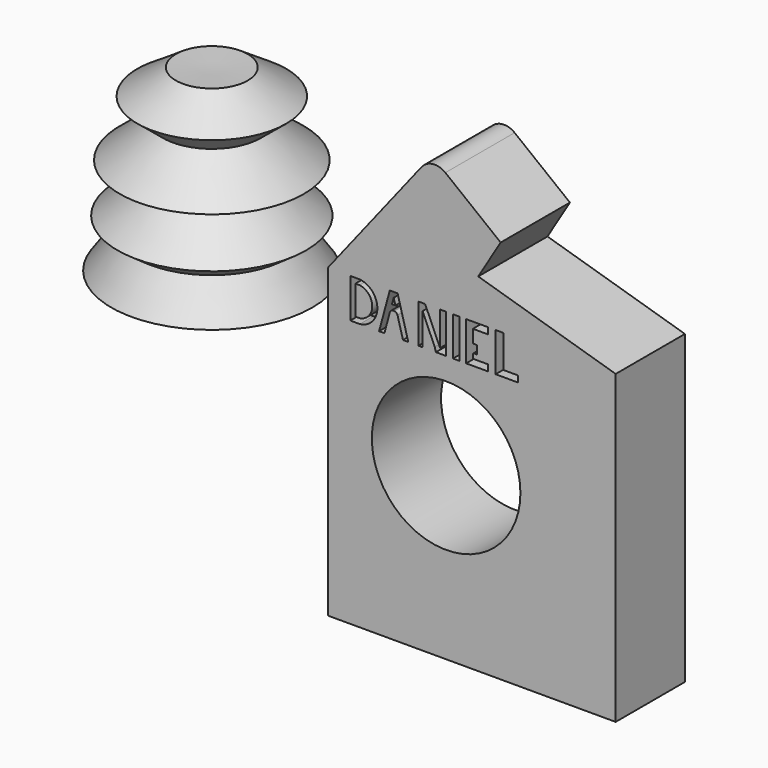
from build123d import *

# Parameters (mm, degrees)
F0_R     = 21.802932
F1_DEPTH = 25.4
F4_W     = 1.879983
F4_H     = 11.429243
F5_DEPTH = 5


with BuildPart() as f1:
    # F0 (on Front) → F1 (new body)
    with BuildSketch(Plane.XZ):
        with BuildLine():
            Line((-34.680426, 39.863642), (-34.680426, -50.04159))
            Line((-34.680426, -50.04159), (49.758866, -50.04159))
            Line((49.758866, -50.04159), (49.758866, 39.863642))
            Line((49.758866, 39.863642), (9.42403, 51.926393))
            Line((9.42403, 51.926393), (16.007511, 62.841313))
            Line((16.007511, 62.841313), (-0.216304, 75.599848))
            ThreePointArc((-0.216304, 75.599848), (-3.900695, 76.63422), (-7.237364, 74.760373))
            Line((-7.237364, 74.760373), (-34.680426, 39.863642))
        make_face()
        Circle(F0_R, mode=Mode.SUBTRACT)
    extrude(amount=F1_DEPTH)

    # F4 (on face) → F5 (cut)
    with BuildSketch(Plane.XZ.offset(25.4)):
        with BuildLine():
            Line((-25.312183, 39.863642), (-28.125796, 39.863642))
            Line((-28.125796, 39.863642), (-28.125796, 28.321173))
            Line((-28.125796, 28.321173), (-25.312183, 28.321173))
            ThreePointArc((-25.312183, 28.321173), (-20.172784, 34.092408), (-25.312183, 39.863642))
        make_face()
        with BuildLine():
            ThreePointArc((-25.405546, 38.363642), (-21.672784, 34.092408), (-25.405546, 29.821173))
            Line((-25.405546, 29.821173), (-26.625796, 29.821173))
            Line((-26.625796, 29.821173), (-26.625796, 38.363642))
            Line((-26.625796, 38.363642), (-25.405546, 38.363642))
        make_face(mode=Mode.SUBTRACT)
        with BuildLine():
            Line((-14.239507, 39.863642), (-16.533819, 39.863642))
            Line((-16.533819, 39.863642), (-19.666507, 28.321173))
            Line((-19.666507, 28.321173), (-18.112243, 28.321173))
            Line((-18.112243, 28.321173), (-16.510762, 34.221871))
            ThreePointArc((-16.510762, 34.221871), (-16.153157, 34.754275), (-15.545675, 34.959942))
            Line((-15.545675, 34.959942), (-15.386663, 34.959942))
            Line((-15.386663, 34.959942), (-15.22765, 34.959942))
            ThreePointArc((-15.22765, 34.959942), (-14.620168, 34.754275), (-14.262563, 34.221871))
            Line((-14.262563, 34.221871), (-12.661082, 28.321173))
            Line((-12.661082, 28.321173), (-11.106818, 28.321173))
            Line((-11.106818, 28.321173), (-14.239507, 39.863642))
        make_face()
        Polygon((-14.8867, 36.521517), (-15.386663, 36.521517), (-15.886625, 36.521517), (-15.386663, 38.363642), align=None, mode=Mode.SUBTRACT)
        with Locations((2.97413, 34.035795)):
            Rectangle(F4_W, F4_H)
        with BuildLine():
            Line((12.227822, 39.750416), (5.877659, 39.750416))
            Line((5.877659, 39.750416), (5.877659, 28.321173))
            Line((5.877659, 28.321173), (12.227822, 28.321173))
            Line((12.227822, 28.321173), (12.227822, 30.159378))
            Line((12.227822, 30.159378), (7.841197, 30.159378))
            Line((7.841197, 30.159378), (7.841197, 31.331802))
            ThreePointArc((7.841197, 31.331802), (7.929065, 31.543934), (8.141197, 31.631802))
            Line((8.141197, 31.631802), (9.062956, 31.631802))
            Line((9.062956, 31.631802), (9.062956, 34.086451))
            Line((9.062956, 34.086451), (8.141197, 34.086451))
            ThreePointArc((8.141197, 34.086451), (7.929065, 34.174319), (7.841197, 34.386451))
            Line((7.841197, 34.386451), (7.841197, 37.888195))
            Line((7.841197, 37.888195), (12.227822, 37.888195))
            Line((12.227822, 37.888195), (12.227822, 39.750416))
        make_face()
        Polygon((16.781555, 39.750416), (14.525576, 39.750416), (14.525576, 28.321173), (21.084625, 28.321173), (21.084625, 30.159378), (16.781555, 30.159378), align=None)
        Polygon((-8.154768, 39.750416), (-8.154768, 28.321173), (-6.913761, 28.321173), (-6.913761, 37.668776), (-3.351229, 29.57325), (-3.011408, 28.321173), (0, 28.321173), (0, 39.750416), (-1.786575, 39.750416), (-1.786575, 29.798029), (-6.16624, 39.750416), align=None)
    extrude(amount=-F5_DEPTH, mode=Mode.SUBTRACT)


with BuildPart() as f3:
    # F2 (on Front) → F3 (revolve)
    with BuildSketch(Plane.XZ):
        Polygon((-78.539953, 63.598379), (-89.075804, 63.215263), (-89.075804, 11.110704), (-59.575427, 11.110704), (-66.854745, 21.45499), (-61.41213, 25.284981), (-73.559374, 35.822056), (-62.065721, 39.653271), (-74.708737, 49.997561), (-67.237861, 56.127507), align=None)
    revolve(axis=Axis((-89.075804, 0, 37.162984), (0, 0, -1)))


solid = Compound([f1.part, f3.part])
